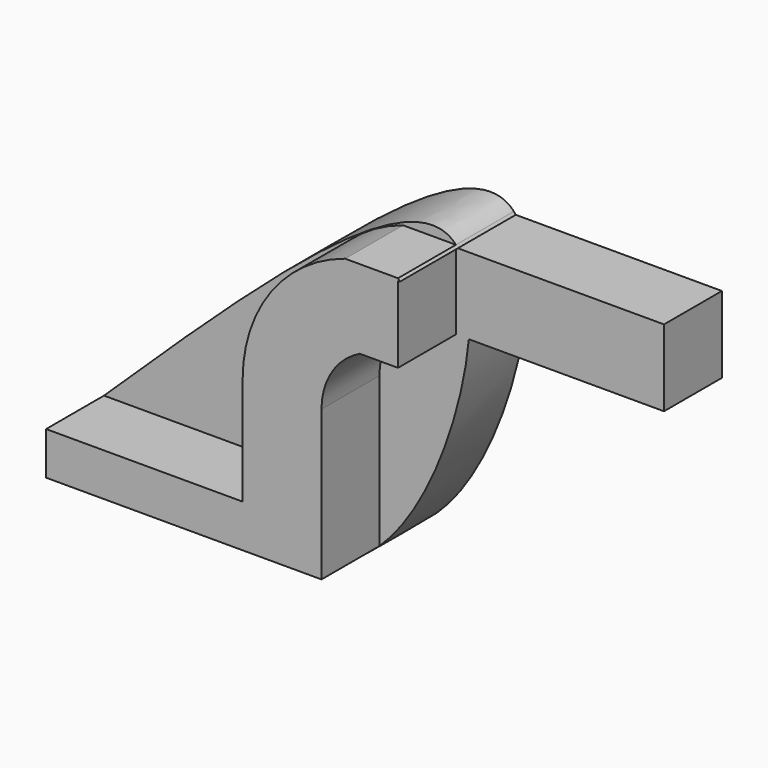
from build123d import *

# Parameters (mm, degrees)
F1_DEPTH = 50.8
F2_DEPTH = 25.4


with BuildPart() as f1:
    # F0 (on Front) → F1 (new body)
    with BuildSketch(Plane.XZ):
        Polygon((20.6421925792, 7.51771871), (-48.3281910419, 7.51771871), (-48.3281910419, -7.51771871), (48.3281910419, -7.51771871), (48.3281910419, 7.51771871), align=None)
        with BuildLine():
            Line((20.6421925792, 45.1063103974), (20.6421925792, 7.51771871))
            Line((20.6421925792, 7.51771871), (48.3281910419, 7.51771871))
            Line((48.3281910419, 7.51771871), (48.3281910419, 45.1063103974))
            ThreePointArc((48.3281910419, 45.1063103974), (51.960362252, 57.7709568542), (61.7526844144, 66.5855109692))
            Line((61.7526844144, 66.5855109692), (75.1771777868, 66.5855109692))
            Line((75.1771777868, 66.5855109692), (75.1771777868, 93.434497714))
            Line((75.1771777868, 93.434497714), (75.8579934425, 93.434497714))
            add(Edge.make_bspline(
                [(75.1771777868, 94.2715094319), (75.4129729742, 94.0083477821), (75.6398818224, 93.7291697266), (75.8579934425, 93.434497714)],
                knots=[0.3794479889, 0.3794479889, 0.3794479889, 0.3794479889, 0.3852143851, 0.3852143851, 0.3852143851, 0.3852143851], degree=3))
            Line((75.1771777868, 94.2715094319), (56.6210457303, 94.2715094319))
            ThreePointArc((56.6210457303, 94.2715094319), (30.5976219571, 75.5681499272), (20.6421925792, 45.1063103974))
        make_face()
    extrude(amount=F1_DEPTH)

    # F0 (on Front) → F2 (join)
    with BuildSketch(Plane.XZ):
        with BuildLine():
            add(Edge.make_bspline(
                [(-48.3281910419, 7.51771871), (5.6664408177, 59.5530686078), (59.6610726774, 111.5884185057), (75.1771777868, 94.2715094319)],
                knots=[0, 0, 0, 0, 0.3794479889, 0.3794479889, 0.3794479889, 0.3794479889], degree=3))
            Line((-48.3281910419, 7.51771871), (20.6421925792, 7.51771871))
            Line((20.6421925792, 7.51771871), (20.6421925792, 45.1063103974))
            ThreePointArc((20.6421925792, 45.1063103974), (30.5976219571, 75.5681499272), (56.6210457303, 94.2715094319))
            Line((56.6210457303, 94.2715094319), (75.1771777868, 94.2715094319))
        make_face()
        Polygon((20.6421925792, 7.51771871), (-48.3281910419, 7.51771871), (-48.3281910419, -7.51771871), (48.3281910419, -7.51771871), (48.3281910419, 7.51771871), align=None)
        with BuildLine():
            Line((20.6421925792, 45.1063103974), (20.6421925792, 7.51771871))
            Line((20.6421925792, 7.51771871), (48.3281910419, 7.51771871))
            Line((48.3281910419, 7.51771871), (48.3281910419, 45.1063103974))
            ThreePointArc((48.3281910419, 45.1063103974), (51.960362252, 57.7709568542), (61.7526844144, 66.5855109692))
            Line((61.7526844144, 66.5855109692), (75.1771777868, 66.5855109692))
            Line((75.1771777868, 66.5855109692), (75.1771777868, 93.434497714))
            Line((75.1771777868, 93.434497714), (75.8579934425, 93.434497714))
            add(Edge.make_bspline(
                [(75.1771777868, 94.2715094319), (75.4129729742, 94.0083477821), (75.6398818224, 93.7291697266), (75.8579934425, 93.434497714)],
                knots=[0.3794479889, 0.3794479889, 0.3794479889, 0.3794479889, 0.3852143851, 0.3852143851, 0.3852143851, 0.3852143851], degree=3))
            Line((75.1771777868, 94.2715094319), (56.6210457303, 94.2715094319))
            ThreePointArc((56.6210457303, 94.2715094319), (30.5976219571, 75.5681499272), (20.6421925792, 45.1063103974))
        make_face()
        with BuildLine():
            Line((48.3281910419, -7.51771871), (-48.3281910419, -7.51771871))
            add(Edge.make_bspline(
                [(48.3281910419, -7.51771871), (23.484061655, -30.9869947446), (-12.4220646935, -19.2523567273), (-48.3281910419, -7.51771871)],
                knots=[0.6963452607, 0.6963452607, 0.6963452607, 0.6963452607, 1, 1, 1, 1], degree=3))
        make_face()
        with BuildLine():
            Line((48.3281910419, 45.1063103974), (48.3281910419, 7.51771871))
            Line((48.3281910419, 7.51771871), (48.3281910419, -7.51771871))
            add(Edge.make_bspline(
                [(79.709168251, 66.5855109692), (77.4435654124, 41.9004142214), (65.5407792267, 8.7423392331), (48.3281910419, -7.51771871)],
                knots=[0.4859662253, 0.4859662253, 0.4859662253, 0.4859662253, 0.6963452607, 0.6963452607, 0.6963452607, 0.6963452607], degree=3))
            Line((79.709168251, 66.5855109692), (75.1771777868, 66.5855109692))
            Line((75.1771777868, 66.5855109692), (61.7526844144, 66.5855109692))
            ThreePointArc((61.7526844144, 66.5855109692), (51.960362252, 57.7709568542), (48.3281910419, 45.1063103974))
        make_face()
        with BuildLine():
            add(Edge.make_bspline(
                [(75.8579934425, 93.434497714), (79.6688913238, 88.2859185243), (80.7941796665, 78.4073586951), (79.709168251, 66.5855109692)],
                knots=[0.3852143851, 0.3852143851, 0.3852143851, 0.3852143851, 0.4859662253, 0.4859662253, 0.4859662253, 0.4859662253], degree=3))
            Line((75.8579934425, 93.434497714), (75.1771777868, 93.434497714))
            Line((75.1771777868, 93.434497714), (75.1771777868, 66.5855109692))
            Line((75.1771777868, 66.5855109692), (79.709168251, 66.5855109692))
        make_face()
        with BuildLine():
            Line((148.2064425945, 93.434497714), (75.8579934425, 93.434497714))
            add(Edge.make_bspline(
                [(75.8579934425, 93.434497714), (79.6688913238, 88.2859185243), (80.7941796665, 78.4073586951), (79.709168251, 66.5855109692)],
                knots=[0.3852143851, 0.3852143851, 0.3852143851, 0.3852143851, 0.4859662253, 0.4859662253, 0.4859662253, 0.4859662253], degree=3))
            Line((79.709168251, 66.5855109692), (148.2064425945, 66.5855109692))
            Line((148.2064425945, 66.5855109692), (148.2064425945, 93.434497714))
        make_face()
    extrude(amount=F2_DEPTH)


solid = f1.part
